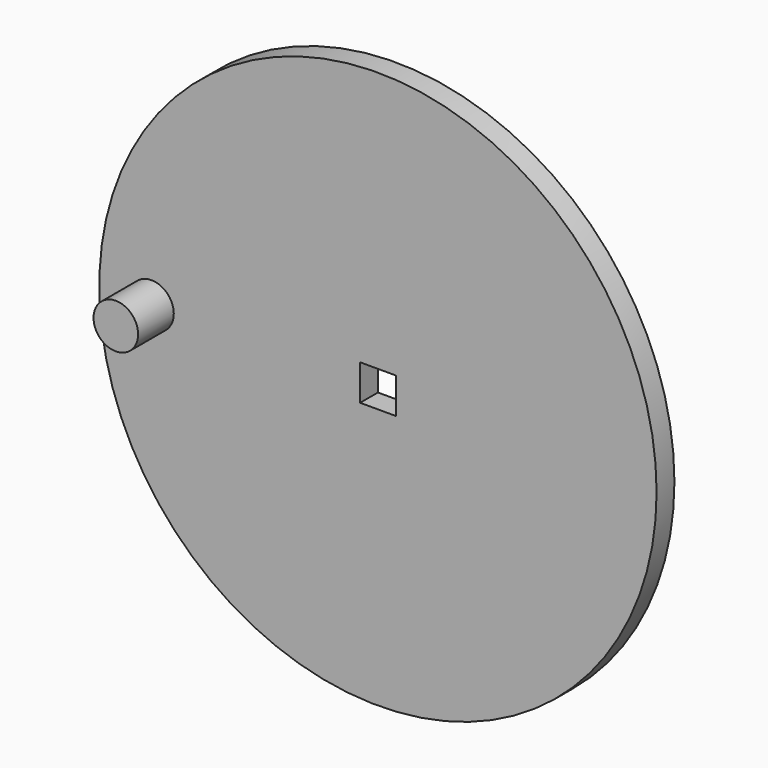
from build123d import *

# Parameters (mm, degrees)
F0_R     = 3175
F1_DEPTH = 254
F2_R     = 254
F3_DEPTH = 508
F5_DEPTH = 254


with BuildPart() as f1:
    # F0 (on Front) → F1 (new body)
    with BuildSketch(Plane.XZ):
        Circle(F0_R)
    extrude(amount=F1_DEPTH)

    # F2 (on face) → F3 (join)
    with BuildSketch(Plane.XZ.offset(254)):
        with Locations((-2580.087737, 0)):
            Circle(F2_R)
    extrude(amount=F3_DEPTH)

    # F4 (on face) → F5 (cut)
    with BuildSketch(Plane.XZ.offset(254)):
        Polygon((203.2, 203.2), (0, 203.2), (-203.2, 203.2), (-203.2, -203.2), (203.2, -203.2), align=None)
    extrude(amount=-F5_DEPTH, mode=Mode.SUBTRACT)


solid = f1.part
